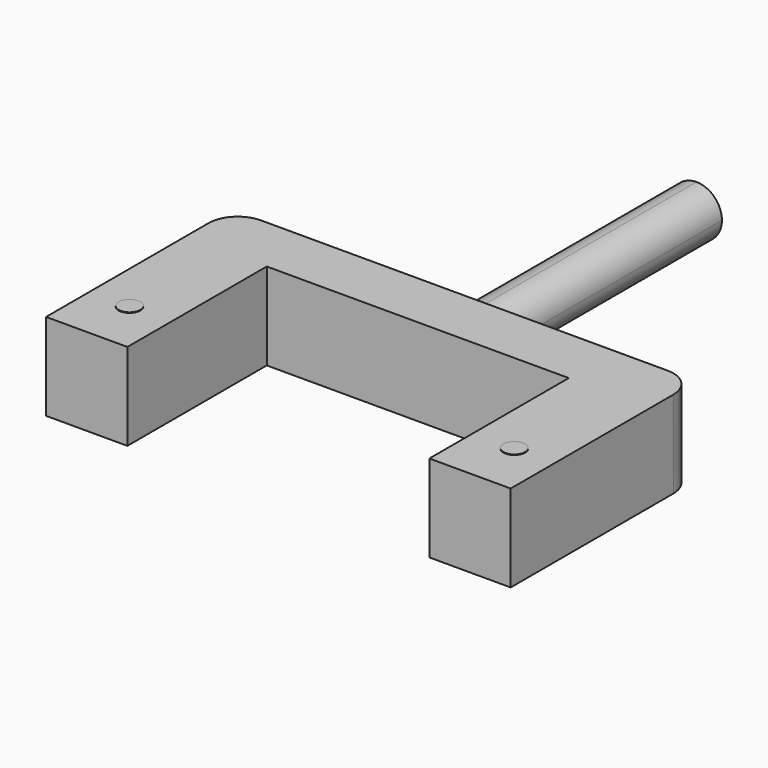
from build123d import *

# Parameters (mm, degrees)
F0_W     = 35.56
F0_H     = 76.2
F1_DEPTH = 38.1
F2_R     = 4.7625
F3_DEPTH = 0.254
F5_DEPTH = 127
F6_R     = 4.7625
F7_DEPTH = 0.254


with BuildPart() as f1:
    # F0 (on Top) → F1 (new body)
    with BuildSketch(Plane.XY):
        with BuildLine():
            Line((97.53417238, 58.7352159441), (-80.26582762, 58.7352159441))
            ThreePointArc((-80.26582762, 58.7352159441), (-89.2460837411, 55.0154720651), (-92.96582762, 46.0352159441))
            Line((-92.96582762, 46.0352159441), (-92.96582762, 33.3352159441))
            Line((-92.96582762, 33.3352159441), (-57.40582762, 33.3352159441))
            Line((-57.40582762, 33.3352159441), (74.67417238, 33.3352159441))
            Line((74.67417238, 33.3352159441), (110.23417238, 33.3352159441))
            Line((110.23417238, 33.3352159441), (110.23417238, 46.0352159441))
            ThreePointArc((110.23417238, 46.0352159441), (106.514428501, 55.0154720651), (97.53417238, 58.7352159441))
        make_face()
        with Locations((-75.18582762, -4.7647840559)):
            Rectangle(F0_W, F0_H)
        with Locations((92.45417238, -4.7647840559)):
            Rectangle(F0_W, F0_H)
    extrude(amount=F1_DEPTH)

    # F2 (on face) → F3 (join)
    with BuildSketch(Plane.XY.offset(38.1)):
        with Locations((-75.50332762, -19.0544008167)):
            Circle(F2_R)
        with Locations((92.77167238, -19.0544008167)):
            Circle(F2_R)
    extrude(amount=F3_DEPTH)

    # F4 (on face) → F5 (join)
    with BuildSketch(Plane(origin=(0, 58.7352159441, 0), x_dir=(-1, 0, 0), z_dir=(0, 1, 0))):
        with BuildLine():
            Line((-19.74667238, 19.05), (-8.63417238, 19.05))
            Line((-8.63417238, 19.05), (-8.63417238, 30.1625))
            ThreePointArc((-8.63417238, 30.1625), (-16.4918964859, 26.9077241059), (-19.74667238, 19.05))
        make_face()
        with BuildLine():
            Line((-8.63417238, 30.1625), (-8.63417238, 19.05))
            Line((-8.63417238, 19.05), (2.47832762, 19.05))
            ThreePointArc((2.47832762, 19.05), (-0.776448274, 26.9077241059), (-8.63417238, 30.1625))
        make_face()
        with BuildLine():
            Line((2.47832762, 19.05), (-8.63417238, 19.05))
            Line((-8.63417238, 19.05), (-8.63417238, 7.9375))
            ThreePointArc((-8.63417238, 7.9375), (-0.776448274, 11.1922758941), (2.47832762, 19.05))
        make_face()
        with BuildLine():
            Line((-8.63417238, 7.9375), (-8.63417238, 19.05))
            Line((-8.63417238, 19.05), (-19.74667238, 19.05))
            ThreePointArc((-19.74667238, 19.05), (-16.4918964859, 11.1922758941), (-8.63417238, 7.9375))
        make_face()
    extrude(amount=F5_DEPTH)

    # F6 (on face) → F7 (join)
    with BuildSketch(Plane(origin=(0, 0, 0), x_dir=(1, 0, 0), z_dir=(0, 0, -1))):
        with Locations((-75.50332762, 23.8147840559)):
            Circle(F6_R)
        with Locations((92.77167238, 23.8147840559)):
            Circle(F6_R)
    extrude(amount=F7_DEPTH)


solid = f1.part
